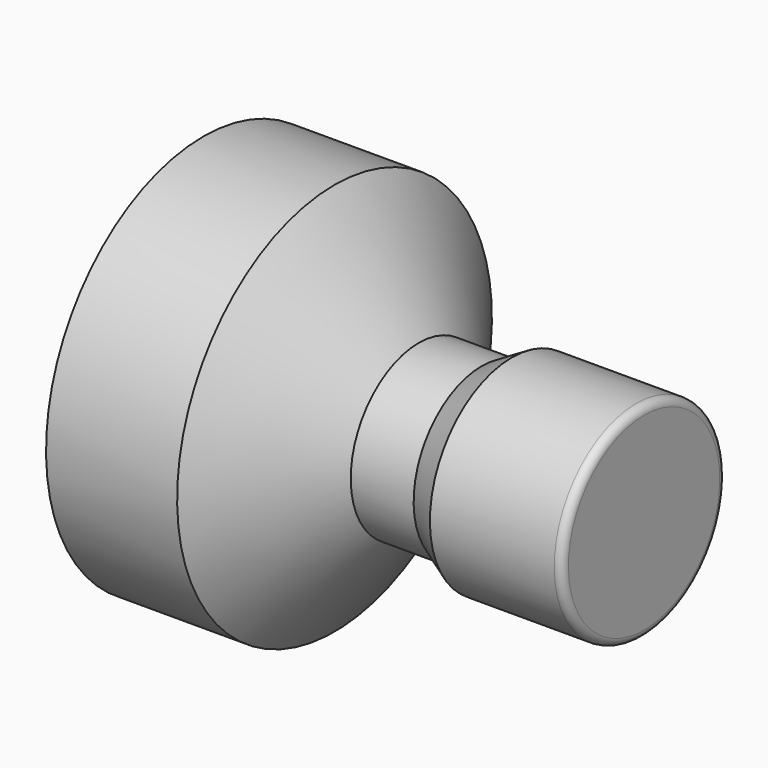
from build123d import *

# Parameters (mm, degrees)
F0_W = 8.33
F0_H = 12.5


with BuildPart() as f1:
    # F0 (on Front) → F1 (revolve)
    with BuildSketch(Plane.XZ):
        with BuildLine():
            Line((-8.4, 0), (0, 0))
            Line((0, 0), (0, 6.01))
            ThreePointArc((0, 6.01), (-0.146447, 6.363553), (-0.5, 6.51))
            Line((-0.5, 6.51), (-8.4, 6.51))
            Line((-8.4, 6.51), (-8.4, 0))
        make_face()
        Polygon((-10.322576, 0), (-8.4, 0), (-8.4, 6.51), (-10.322576, 5.4), align=None)
        Polygon((-19.67, 0), (-10.322576, 0), (-10.322576, 5.4), (-14.319766, 5.4), (-19.67, 12.5), align=None)
        with Locations((-23.835, 6.25)):
            Rectangle(F0_W, F0_H)
    revolve(axis=Axis((-14, 0, 0), (1, 0, 0)))


solid = f1.part
